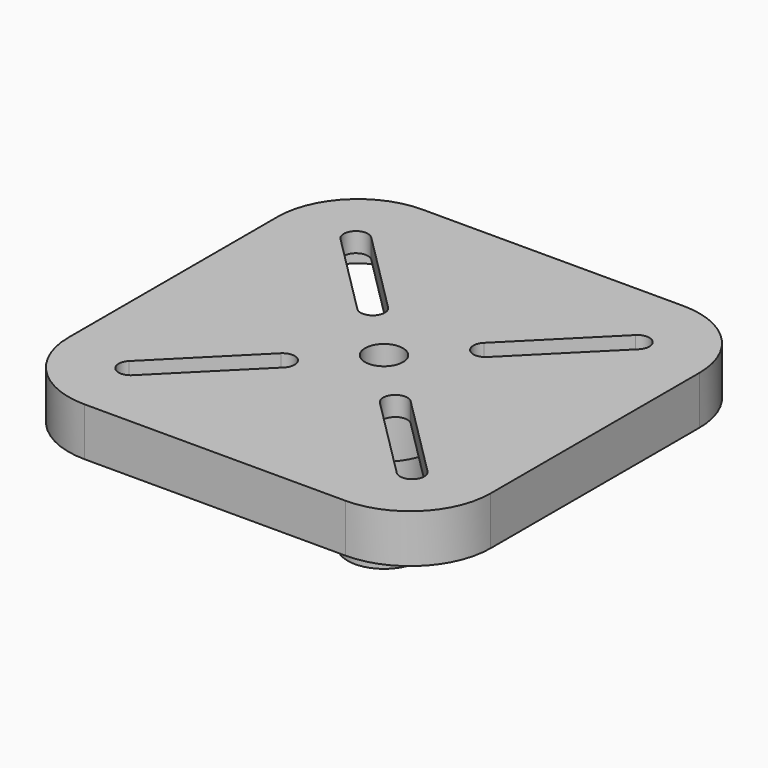
from build123d import *

# Parameters (mm, degrees)
PAD002_DEPTH          = 30
POCKET024_DEPTH       = 23
POLARPATTERN_COUNT    = 4
PAD013_DEPTH          = 12
POLARPATTERN001_COUNT = 4
SKETCH039_R           = 31
PAD014_DEPTH          = 42
SKETCH040_R           = 22.5
PAD015_DEPTH          = 105
SKETCH041_R           = 13.5
POCKET025_DEPTH       = 77
SKETCH042_R           = 11.75
POCKET026_DEPTH       = 50
POCKET027_DEPTH       = 15
POLARPATTERN002_COUNT = 4


with BuildPart() as part:
    # Sketch005 → Pad002 (new body)
    with BuildSketch(Plane.XY):
        with BuildLine():
            Line((-81, 131), (81, 131))
            ThreePointArc((131, 81), (116.355339, 116.355339), (81, 131))
            Line((131, 81), (131, -81))
            ThreePointArc((81, -131), (116.355339, -116.355339), (131, -81))
            Line((81, -131), (-81, -131))
            ThreePointArc((-131, -81), (-116.355339, -116.355339), (-81, -131))
            Line((-131, -81), (-131, 81))
            ThreePointArc((-81, 131), (-116.355339, 116.355339), (-131, 81))
        make_face()
    extrude(amount=PAD002_DEPTH)

    # Sketch037 (on Face9 of Pad002) → Pocket024 (cut)
    with BuildSketch(Plane(origin=(0, 0, 0), x_dir=(1, 0, 0), z_dir=(0, 0, -1))):
        with BuildLine():
            Line((-81, 121), (-5, 121))
            Line((-5, 121), (-5, 5))
            Line((-5, 5), (-121, 5))
            Line((-121, 5), (-121, 81))
            ThreePointArc((-81, 121), (-109.284271, 109.284271), (-121, 81))
        make_face()
    pocket024 = extrude(amount=-POCKET024_DEPTH, mode=Mode.SUBTRACT)

    # PolarPattern: Pocket024 ×4 about axis
    polarpattern_axis = Axis((0, 0, 0), (0, 0, -1))
    for i in range(1, POLARPATTERN_COUNT):
        add(pocket024.rotate(polarpattern_axis, i * 360 / POLARPATTERN_COUNT), mode=Mode.SUBTRACT)

    # Sketch038 (on Face5 of PolarPattern) → Pad013 (join)
    with BuildSketch(Plane.XY.offset(29.9)):
        Polygon((-12.391874, 12.391877), (99.536252, 124.332785), (105.391106, 122.550873), (110, 120), (120, 110), (124.952294, 101.341048), (12.337305, -12.337366), align=None)
    pad013 = extrude(amount=-PAD013_DEPTH)

    # PolarPattern001: Pad013 ×4 about axis
    polarpattern001_axis = Axis((0, 0, 29.9), (0, 0, 1))
    for i in range(1, POLARPATTERN001_COUNT):
        add(pad013.rotate(polarpattern001_axis, i * 360 / POLARPATTERN001_COUNT))

    # Sketch039 (on Face5 of PolarPattern001) → Pad014 (join)
    with BuildSketch(Plane.XY.offset(29.9)):
        Circle(SKETCH039_R)
    extrude(amount=-PAD014_DEPTH)

    # Sketch040 (on Face5 of Pad014) → Pad015 (join)
    with BuildSketch(Plane.XY.offset(29.9)):
        Circle(SKETCH040_R)
    extrude(amount=-PAD015_DEPTH)

    # Sketch041 (on Face54 of Pad015) → Pocket025 (cut)
    with BuildSketch(Plane(origin=(0, 0, -75.1), x_dir=(1, 0, 0), z_dir=(0, 0, -1))):
        Circle(SKETCH041_R)
    extrude(amount=-POCKET025_DEPTH, mode=Mode.SUBTRACT)

    # Sketch042 (on Face5 of Pocket025) → Pocket026 (cut)
    with BuildSketch(Plane.XY.offset(30)):
        Circle(SKETCH042_R)
    extrude(amount=-POCKET026_DEPTH, mode=Mode.SUBTRACT)

    # Sketch043 (on Face5 of Pocket026) → Pocket027 (cut)
    with BuildSketch(Plane.XY.offset(30)):
        with BuildLine():
            ThreePointArc((29.696699, 40.303301), (29.696699, 29.696699), (40.303301, 29.696699))
            Line((40.303301, 29.696699), (92.629203, 82.022601))
            ThreePointArc((92.629203, 82.022601), (92.629203, 92.629203), (82.022601, 92.629203))
            Line((82.022601, 92.629203), (29.696699, 40.303301))
        make_face()
    pocket027 = extrude(amount=-POCKET027_DEPTH, mode=Mode.SUBTRACT)

    # PolarPattern002: Pocket027 ×4 about axis
    polarpattern002_axis = Axis((0, 0, 30), (0, 0, 1))
    for i in range(1, POLARPATTERN002_COUNT):
        add(pocket027.rotate(polarpattern002_axis, i * 360 / POLARPATTERN002_COUNT), mode=Mode.SUBTRACT)


with BuildPart() as part_1:
    # Body002 placement: moved
    add(part.part.moved(Location((0, 210, -105))))


solid = part_1.part
